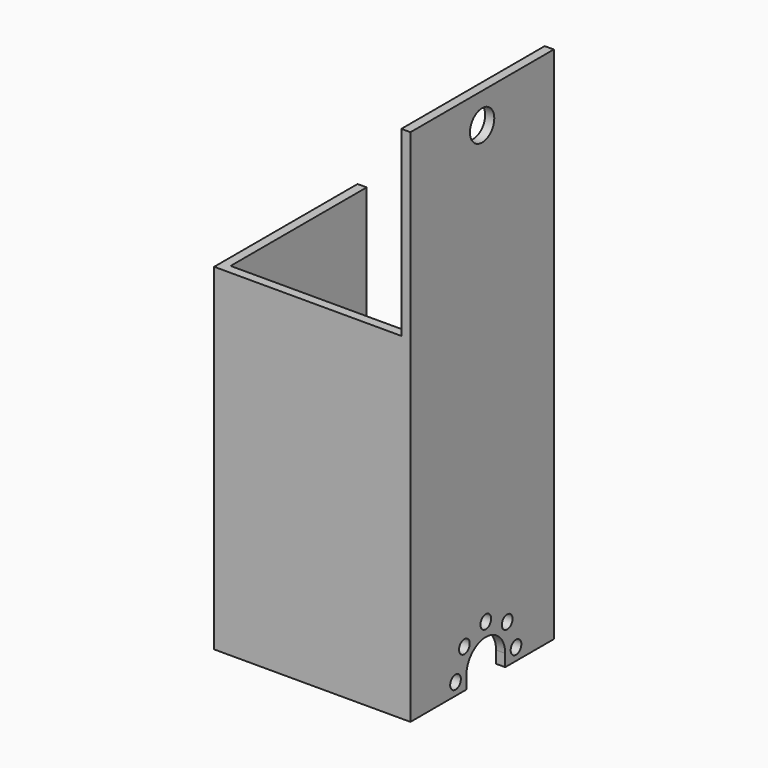
from build123d import *

# Parameters (mm, degrees)
F1_DEPTH  = 28
F2_R      = 1.1
F3_DEPTH  = 32.301
F4_R      = 1.1
F5_DEPTH  = 1.5
F6_W      = 1.5
F6_H      = 86.945
F7_DEPTH  = 32.3
F8_W      = 29.3
F8_H      = 30
F8_W_2    = 1.5
F9_DEPTH  = 29.501
F10_R     = 2.5
F11_DEPTH = 1.5


with BuildPart() as f1:
    # F0 (on Front) → F1 (new body)
    with BuildSketch(Plane.XZ):
        Polygon((0, 86.945), (0, 0), (1.5, 0), (1.5, 85.445), (30.8, 85.445), (30.8, 0), (32.3, 0), (32.3, 86.945), align=None)
    extrude(amount=F1_DEPTH)

    # F2 (on face) → F3 (cut, through all)
    with BuildSketch(Plane(origin=(0, 0, 0), x_dir=(0, -1, 0), z_dir=(-1, 0, 0))):
        with BuildLine():
            Line((18, 0), (18, 2))
            ThreePointArc((18, 2), (14, 6), (10, 2))
            Line((10, 2), (10, 0))
            Line((10, 0), (18, 0))
        make_face()
        with Locations((20.22254, 2)):
            Circle(F2_R)
        with Locations((18.4, 6.4)):
            Circle(F2_R)
        with Locations((14, 8.22254)):
            Circle(F2_R)
        with Locations((9.6, 6.4)):
            Circle(F2_R)
        with Locations((7.77746, 2)):
            Circle(F2_R)
    extrude(amount=-F3_DEPTH, mode=Mode.SUBTRACT)

    # F4 (on face) → F5 (cut, through all)
    with BuildSketch(Plane.XY.offset(86.945)):
        with Locations((6.15, -4)):
            Circle(F4_R)
        with Locations((26.15, -4)):
            Circle(F4_R)
        with Locations((6.15, -24)):
            Circle(F4_R)
        with Locations((26.15, -24)):
            Circle(F4_R)
    extrude(amount=-F5_DEPTH, mode=Mode.SUBTRACT)

    # F6 (on face) → F7 (join)
    with BuildSketch(Plane.YZ.offset(32.3)):
        with Locations((-28.75, 43.4725)):
            Rectangle(F6_W, F6_H)
    extrude(amount=-F7_DEPTH)

    # F8 (on face) → F9 (cut, through all)
    with BuildSketch(Plane.XZ.offset(29.5)):
        with Locations((16.15, 70.445)):
            Rectangle(F8_W, F8_H)
        with Locations((0.75, 70.445)):
            Rectangle(F8_W_2, F8_H)
        Polygon((32.3, 86.945), (0, 86.945), (0, 85.445), (1.5, 85.445), (30.8, 85.445), (32.3, 85.445), align=None)
    extrude(amount=-F9_DEPTH, mode=Mode.SUBTRACT)

    # F10 (on face) → F11 (cut, through all)
    with BuildSketch(Plane.YZ.offset(32.3)):
        with Locations((-14.75, 80.445)):
            Circle(F10_R)
    extrude(amount=-F11_DEPTH, mode=Mode.SUBTRACT)


solid = f1.part
